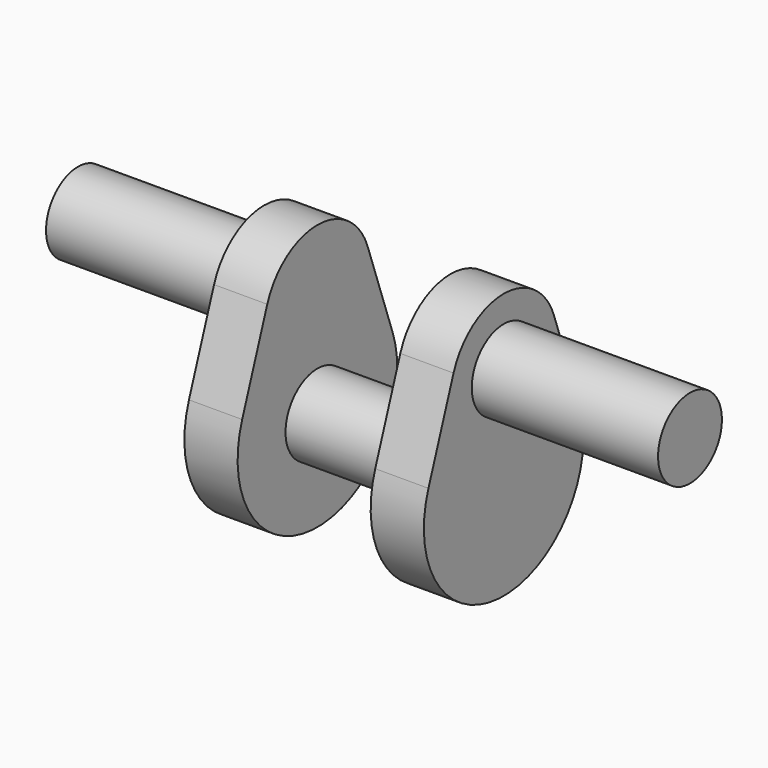
from build123d import *

# Parameters (mm, degrees)
F0_R     = 6
F1_DEPTH = 8
F2_DEPTH = 10
F3_R     = 6
F4_DEPTH = 20
F7_DEPTH = 8
F8_DEPTH = 8


with BuildPart() as f1:
    # F0 (on Right) → F1 (new body)
    with BuildSketch(Plane.YZ):
        with BuildLine():
            Line((-9.4280904158, 18.3333333333), (-14.1421356237, 5))
            ThreePointArc((-14.1421356237, 5), (0, -15), (14.1421356237, 5))
            Line((14.1421356237, 5), (9.4280904158, 18.3333333333))
            ThreePointArc((9.4280904158, 18.3333333333), (0, 25), (-9.4280904158, 18.3333333333))
        make_face()
        Circle(F0_R, mode=Mode.SUBTRACT)
        Circle(F0_R)
    extrude(amount=F1_DEPTH)

    # F0 (on Right) → F2 (join)
    with BuildSketch(Plane.YZ):
        Circle(F0_R)
    extrude(amount=-F2_DEPTH)

    # F3 (on face) → F4 (join)
    with BuildSketch(Plane.YZ.offset(8)):
        with Locations((0, 15)):
            Circle(F3_R)
    extrude(amount=F4_DEPTH)

    # F6: F1 across plane


with BuildPart() as f1_1:
    add(f1.part)
    add(f1.part.mirror(Plane.YZ.offset(-10)))

    # F7 (add): a face of the model
    f7_faces = [f1_1.faces().sort_by_distance(p)[0] for p in [
        (28, 0, 15),
    ]]
    extrude(f7_faces, amount=F7_DEPTH)

    # F8 (add): a face of the model
    f8_faces = [f1_1.faces().sort_by_distance(p)[0] for p in [
        (-48, 0, 15),
    ]]
    extrude(f8_faces, amount=F8_DEPTH)


solid = f1_1.part
